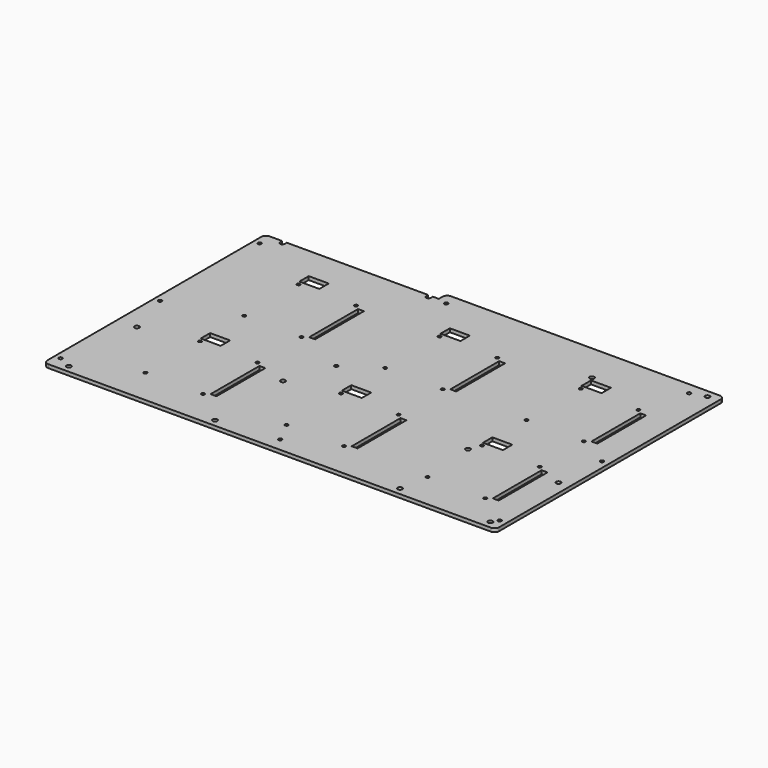
from build123d import *

# Parameters (mm, degrees)
F0_R     = 1.9812
F0_R_2   = 1.5
F0_R_3   = 1.3716
F0_W     = 4.99999
F0_H     = 51.988198
F0_W_2   = 17
F0_H_2   = 10.000005
F1_DEPTH = 2.999994


with BuildPart() as f1:
    # F0 (on Top) → F1 (new body)
    with BuildSketch(Plane.XY):
        with BuildLine():
            ThreePointArc((-161.572698, -117.981502), (-160.412138, -120.783342), (-157.610298, -121.943902))
            Line((-157.610298, -121.943902), (139.264902, -121.943902))
            Line((139.264902, -121.943902), (219.265302, -121.943902))
            ThreePointArc((219.265302, -121.943902), (222.066859, -120.783459), (223.227302, -117.981902))
            Line((223.227302, -117.981902), (223.227302, 117.807098))
            ThreePointArc((223.227302, 117.807098), (222.066859, 120.608655), (219.265302, 121.769098))
            Line((219.265302, 121.769098), (143.227302, 121.769098))
            Line((143.227302, 121.769098), (-9.640698, 121.769098))
            ThreePointArc((-9.640698, 121.769098), (-12.442255, 120.608655), (-13.602698, 117.807098))
            Line((-13.602698, 117.807098), (-13.602698, 113.769098))
            Line((-13.602698, 113.769098), (-18.621498, 113.769098))
            Line((-18.621498, 113.769098), (-18.621498, 111.609098))
            ThreePointArc((-18.621498, 111.609098), (-20.602698, 109.627898), (-22.583898, 111.609098))
            Line((-22.583898, 111.609098), (-22.583898, 113.769098))
            Line((-22.583898, 113.769098), (-143.081498, 113.769098))
            Line((-143.081498, 113.769098), (-143.081498, 111.609098))
            ThreePointArc((-143.081498, 111.609098), (-145.062698, 109.627898), (-147.043898, 111.609098))
            Line((-147.043898, 111.609098), (-147.043898, 113.769098))
            Line((-147.043898, 113.769098), (-157.610698, 113.769098))
            ThreePointArc((-157.610698, 113.769098), (-160.412255, 112.608655), (-161.572698, 109.807098))
            Line((-161.572698, 109.807098), (-161.572698, -117.981502))
        make_face()
        with Locations((-145.062698, -115.720902)):
            Circle(F0_R, mode=Mode.SUBTRACT)
        with Locations((-156.572698, -110.230902)):
            Circle(F0_R_2, mode=Mode.SUBTRACT)
        with Locations((-99.431735, -91.208814)):
            Circle(F0_R_3, mode=Mode.SUBTRACT)
        with Locations((-20.602698, -115.720902)):
            Circle(F0_R, mode=Mode.SUBTRACT)
        with Locations((30.427302, -110.230902)):
            Circle(F0_R_2, mode=Mode.SUBTRACT)
        with Locations((-50.435135, -91.208814)):
            Circle(F0_R_3, mode=Mode.SUBTRACT)
        with Locations((-43.882665, -62.214709)):
            Rectangle(F0_W, F0_H, mode=Mode.SUBTRACT)
        with Locations((20.768265, -91.208814)):
            Circle(F0_R_3, mode=Mode.SUBTRACT)
        with Locations((-145.062698, -43.330902)):
            Circle(F0_R, mode=Mode.SUBTRACT)
        with Locations((-99.431735, -33.220614)):
            Circle(F0_R_3, mode=Mode.SUBTRACT)
        with Locations((-156.572698, -4.230902)):
            Circle(F0_R_2, mode=Mode.SUBTRACT)
        with Locations((-93.072694, -24.711481)):
            Rectangle(F0_W_2, F0_H_2, mode=Mode.SUBTRACT)
        with Locations((-50.435135, -33.220614)):
            Circle(F0_R_3, mode=Mode.SUBTRACT)
        with Locations((-20.602698, -43.330902)):
            Circle(F0_R, mode=Mode.SUBTRACT)
        with Locations((20.768265, -33.220614)):
            Circle(F0_R_3, mode=Mode.SUBTRACT)
        with Locations((27.127306, -24.711481)):
            Rectangle(F0_W_2, F0_H_2, mode=Mode.SUBTRACT)
        with Locations((-6.572698, -4.230902)):
            Circle(F0_R_2, mode=Mode.SUBTRACT)
        with Locations((69.764865, -91.208814)):
            Circle(F0_R_3, mode=Mode.SUBTRACT)
        with Locations((76.317335, -62.214709)):
            Rectangle(F0_W, F0_H, mode=Mode.SUBTRACT)
        with Locations((136.877302, -115.593902)):
            Circle(F0_R, mode=Mode.SUBTRACT)
        with Locations((213.877302, -115.593902)):
            Circle(F0_R, mode=Mode.SUBTRACT)
        with Locations((217.427302, -110.230902)):
            Circle(F0_R_2, mode=Mode.SUBTRACT)
        with Locations((140.968265, -91.208814)):
            Circle(F0_R_3, mode=Mode.SUBTRACT)
        with Locations((189.964865, -91.208814)):
            Circle(F0_R_3, mode=Mode.SUBTRACT)
        with Locations((196.517335, -62.214709)):
            Rectangle(F0_W, F0_H, mode=Mode.SUBTRACT)
        with Locations((69.764865, -33.220614)):
            Circle(F0_R_3, mode=Mode.SUBTRACT)
        with Locations((136.877302, -43.203902)):
            Circle(F0_R, mode=Mode.SUBTRACT)
        with Locations((140.968265, -33.220614)):
            Circle(F0_R_3, mode=Mode.SUBTRACT)
        with Locations((189.964865, -33.220614)):
            Circle(F0_R_3, mode=Mode.SUBTRACT)
        with Locations((213.877302, -43.203902)):
            Circle(F0_R, mode=Mode.SUBTRACT)
        with Locations((147.327306, -24.711481)):
            Rectangle(F0_W_2, F0_H_2, mode=Mode.SUBTRACT)
        with Locations((217.427302, -1.230902)):
            Circle(F0_R_2, mode=Mode.SUBTRACT)
        with Locations((-99.431735, 13.791186)):
            Circle(F0_R_3, mode=Mode.SUBTRACT)
        with Locations((-50.435135, 13.791186)):
            Circle(F0_R_3, mode=Mode.SUBTRACT)
        with Locations((20.768265, 13.791186)):
            Circle(F0_R_3, mode=Mode.SUBTRACT)
        with Locations((-43.882665, 42.785291)):
            Rectangle(F0_W, F0_H, mode=Mode.SUBTRACT)
        with Locations((-99.431735, 71.779386)):
            Circle(F0_R_3, mode=Mode.SUBTRACT)
        with Locations((-93.072694, 80.288519)):
            Rectangle(F0_W_2, F0_H_2, mode=Mode.SUBTRACT)
        with Locations((-156.572698, 101.769098)):
            Circle(F0_R_2, mode=Mode.SUBTRACT)
        with Locations((-50.435135, 71.779386)):
            Circle(F0_R_3, mode=Mode.SUBTRACT)
        with Locations((20.768265, 71.779386)):
            Circle(F0_R_3, mode=Mode.SUBTRACT)
        with Locations((27.127306, 80.288519)):
            Rectangle(F0_W_2, F0_H_2, mode=Mode.SUBTRACT)
        with Locations((-5.602698, 111.609098)):
            Circle(F0_R_2, mode=Mode.SUBTRACT)
        with Locations((69.764865, 13.791186)):
            Circle(F0_R_3, mode=Mode.SUBTRACT)
        with Locations((76.317335, 42.785291)):
            Rectangle(F0_W, F0_H, mode=Mode.SUBTRACT)
        with Locations((140.968265, 13.791186)):
            Circle(F0_R_3, mode=Mode.SUBTRACT)
        with Locations((189.964865, 13.791186)):
            Circle(F0_R_3, mode=Mode.SUBTRACT)
        with Locations((196.517335, 42.785291)):
            Rectangle(F0_W, F0_H, mode=Mode.SUBTRACT)
        with Locations((69.764865, 71.779386)):
            Circle(F0_R_3, mode=Mode.SUBTRACT)
        with Locations((140.968265, 71.779386)):
            Circle(F0_R_3, mode=Mode.SUBTRACT)
        with Locations((147.327306, 80.288519)):
            Rectangle(F0_W_2, F0_H_2, mode=Mode.SUBTRACT)
        with Locations((136.877302, 88.749098)):
            Circle(F0_R, mode=Mode.SUBTRACT)
        with Locations((189.964865, 71.779386)):
            Circle(F0_R_3, mode=Mode.SUBTRACT)
        with Locations((201.397302, 111.609098)):
            Circle(F0_R_2, mode=Mode.SUBTRACT)
        with Locations((213.877302, 115.419098)):
            Circle(F0_R, mode=Mode.SUBTRACT)
    extrude(amount=F1_DEPTH)


solid = f1.part
